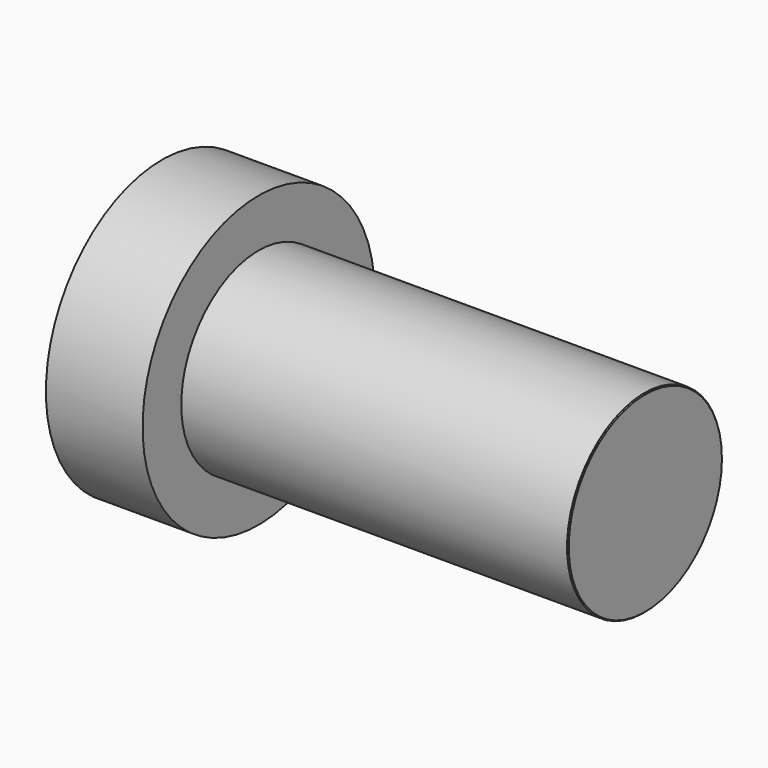
from build123d import *

# Parameters (mm, degrees)
F0_R     = 19.05
F1_DEPTH = 12.7
F2_R     = 12.7
F3_DEPTH = 50.8
F4_SIZE  = 0.127


with BuildPart() as f1:
    # F0 (on Right) → F1 (new body)
    with BuildSketch(Plane.YZ):
        Circle(F0_R)
    extrude(amount=-F1_DEPTH)

    # F2 (on face) → F3 (join)
    with BuildSketch(Plane.YZ):
        Circle(F2_R)
    extrude(amount=F3_DEPTH)

    # F4
    f4_edges = [f1.edges().sort_by_distance(p)[0] for p in [
        (50.8, -12.7, 0),
    ]]
    chamfer(f4_edges, length=F4_SIZE)


solid = f1.part
